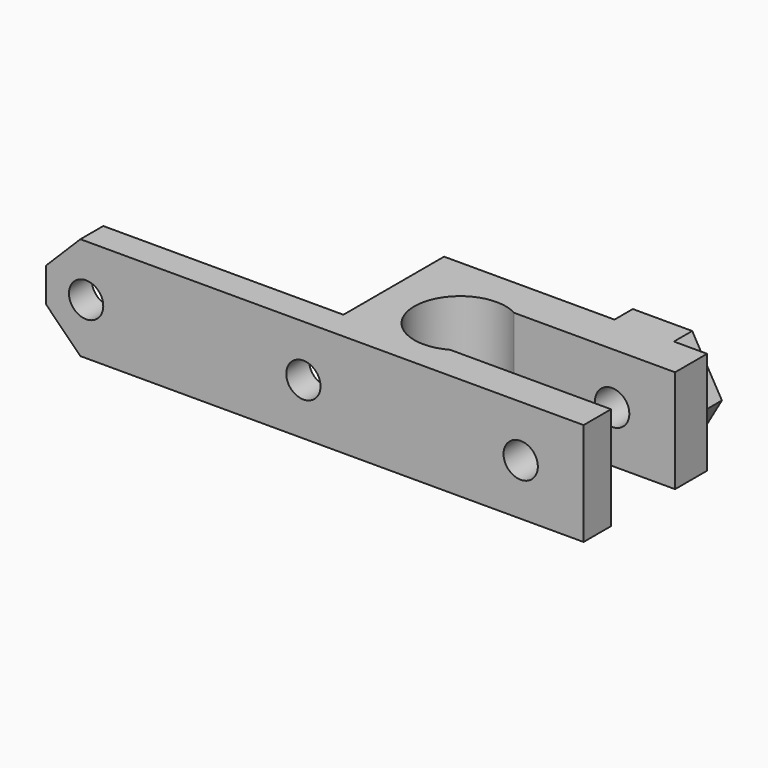
from build123d import *

# Parameters (mm, degrees)
PAD_DEPTH       = 9
SKETCH001_R     = 1.5
POCKET_DEPTH    = 13.501
SKETCH002_R     = 3
POCKET001_DEPTH = 11
PAD001_DEPTH    = 2
POCKET002_DEPTH = 2.501


with BuildPart() as part:
    # Sketch → Pad (new body)
    with BuildSketch(Plane.XY):
        with BuildLine():
            Line((-7, -4), (-31, -4))
            Line((-31, -4), (-31, -6.5))
            Line((-31, -6.5), (16, -6.5))
            Line((16, -6.5), (16, -3.5))
            Line((16, -3.5), (1.936492, -3.5))
            ThreePointArc((1.936492, 3.5), (-4, 0), (1.936492, -3.5))
            Line((1.936492, 3.5), (16, 3.5))
            Line((16, 7), (16, 3.5))
            Line((0, 7), (16, 7))
            Line((-7, 7), (0, 7))
            Line((-7, -4), (-7, 7))
        make_face()
    extrude(amount=PAD_DEPTH)

    # Sketch001 (on Face3 of Pad) → Pocket (cut, through all)
    with BuildSketch(Plane.XZ.offset(6.5)):
        with Locations((-27.5, 4.5)):
            Circle(SKETCH001_R)
        with Locations((-8.5, 4.5)):
            Circle(SKETCH001_R)
        with Locations((10.5, 4.5)):
            Circle(SKETCH001_R)
    extrude(amount=-POCKET_DEPTH, mode=Mode.SUBTRACT)

    # Sketch002 (on Face16 of Pocket) → Pocket001 (cut)
    with BuildSketch(Plane(origin=(0, 7, 0), x_dir=(-1, 0, 0), z_dir=(0, 1, 0))):
        with Locations((8.5, 4.5)):
            Circle(SKETCH002_R)
    extrude(amount=-POCKET001_DEPTH, mode=Mode.SUBTRACT)

    # Sketch003 (on Face15 of Pocket001) → Pad001 (new body)
    with BuildSketch(Plane(origin=(0, 7, 0), x_dir=(-1, 0, 0), z_dir=(0, 1, 0))):
        Polygon((-13.098076, 9), (-15.696152, 4.5), (-13.098076, 0), (-7.901924, 0), (-5.303848, 4.5), (-7.901924, 9), align=None)
        Polygon((-9, 1.901924), (-7.5, 4.5), (-9, 7.098076), (-12, 7.098076), (-13.5, 4.5), (-12, 1.901924), align=None, mode=Mode.SUBTRACT)
    extrude(amount=PAD001_DEPTH)

    # Sketch004 (on Face1 of Pad001) → Pocket002 (cut, through all)
    with BuildSketch(Plane(origin=(0, -4, 0), x_dir=(-1, 0, 0), z_dir=(0, 1, 0))):
        Polygon((31, 6), (28, 9), (31, 9), align=None)
        Polygon((28, 0), (31, 0), (31, 3), align=None)
    extrude(amount=-POCKET002_DEPTH, mode=Mode.SUBTRACT)


solid = part.part
